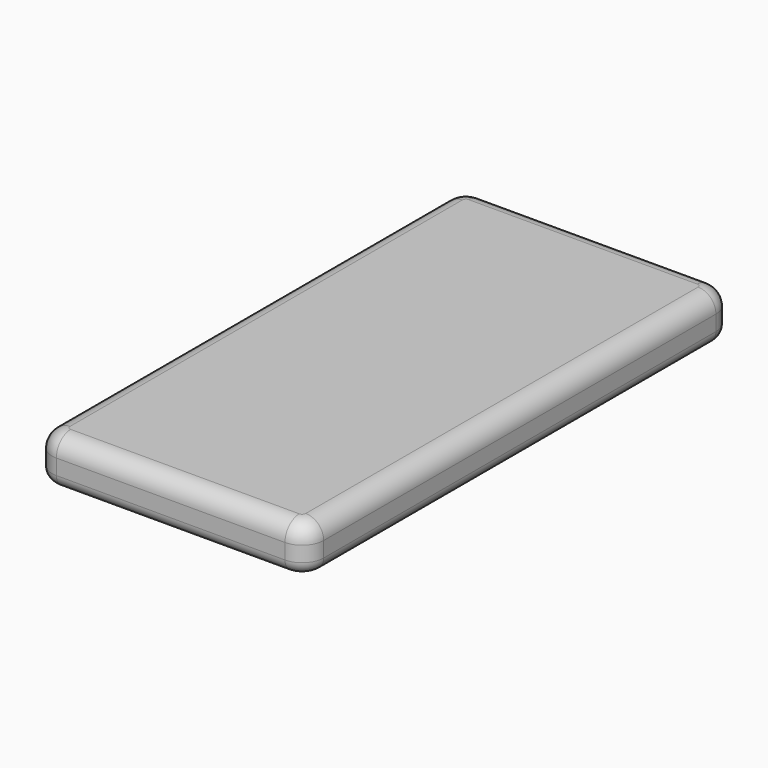
from build123d import *

# Parameters (mm, degrees)
F0_W     = 75.8
F0_H     = 148.86
F1_DEPTH = 12.8
F2_R     = 6
F3_R     = 3.5
F4_R     = 5


with BuildPart() as f1:
    # F0 (on Top) → F1 (new body)
    with BuildSketch(Plane.XY):
        Rectangle(F0_W, F0_H)
    extrude(amount=F1_DEPTH)

    # F2
    f2_edges = [f1.edges().sort_by_distance(p)[0] for p in [
        (37.9, 74.43, 6.4),
        (-37.9, 74.43, 6.4),
        (-37.9, -74.43, 6.4),
        (37.9, -74.43, 6.4),
    ]]
    fillet(f2_edges, radius=F2_R)

    # F3
    f3_edges = [f1.edges().sort_by_distance(p)[0] for p in [
        (0, 74.43, 0),
    ]]
    fillet(f3_edges, radius=F3_R)

    # F4
    f4_edges = [f1.edges().sort_by_distance(p)[0] for p in [
        (0, 74.43, 12.8),
    ]]
    fillet(f4_edges, radius=F4_R)


solid = f1.part
